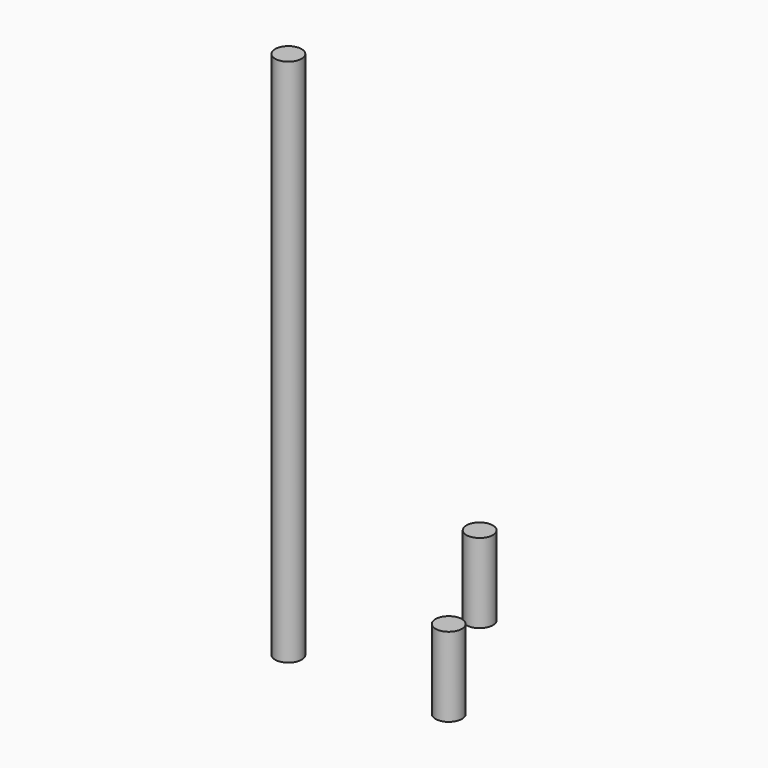
from build123d import *

# Parameters (mm, degrees)
F1_R     = 5
F2_DEPTH = 30
F3_DEPTH = 200
F4_DEPTH = 30


with BuildPart() as f2:
    # F1 (on Top) → F2 (new body)
    with BuildSketch(Plane.XY):
        with Locations((0, 35)):
            Circle(F1_R)
    extrude(amount=F2_DEPTH)


with BuildPart() as f3:
    # F1 (on Top) → F3 (new body)
    with BuildSketch(Plane.XY):
        with Locations((-30.310889, -17.5)):
            Circle(F1_R)
    extrude(amount=F3_DEPTH)


with BuildPart() as f4:
    # F1 (on Top) → F4 (new body)
    with BuildSketch(Plane.XY):
        with Locations((30.310889, -17.5)):
            Circle(F1_R)
    extrude(amount=F4_DEPTH)


solid = Compound([f2.part, f3.part, f4.part])
